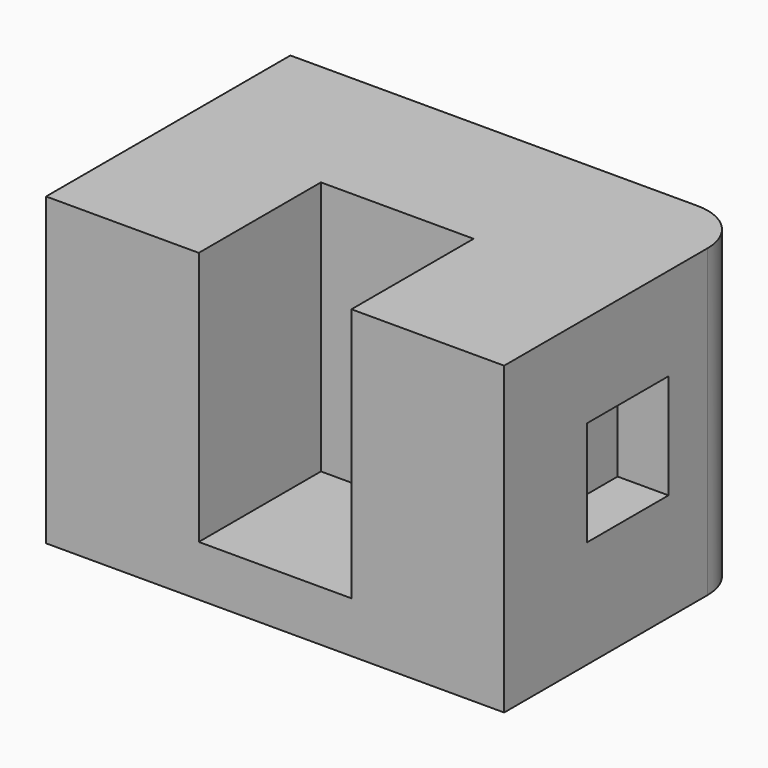
from build123d import *

# Parameters (mm, degrees)
F0_W     = 228.6
F0_H     = 152.4
F1_DEPTH = 152.4
F2_W     = 76.2
F2_H     = 127
F3_DEPTH = 76.2
F4_W     = 50.793443
F4_H     = 52.342028
F5_DEPTH = 25.4
F6_R     = 25.4


with BuildPart() as f1:
    # F0 (on Front) → F1 (new body)
    with BuildSketch(Plane.XZ):
        with Locations((-114.3, 76.2)):
            Rectangle(F0_W, F0_H)
    extrude(amount=F1_DEPTH)

    # F2 (on face) → F3 (cut)
    with BuildSketch(Plane.XZ.offset(152.4)):
        with Locations((-114.3, 88.9)):
            Rectangle(F2_W, F2_H)
    extrude(amount=-F3_DEPTH, mode=Mode.SUBTRACT)

    # F4 (on face) → F5 (cut)
    with BuildSketch(Plane.YZ):
        with Locations((-75.265935, 79.911679)):
            Rectangle(F4_W, F4_H)
    extrude(amount=-F5_DEPTH, mode=Mode.SUBTRACT)

    # F6
    f6_edges = [f1.edges().sort_by_distance(p)[0] for p in [
        (0, 0, 76.2),
    ]]
    fillet(f6_edges, radius=F6_R)


solid = f1.part
